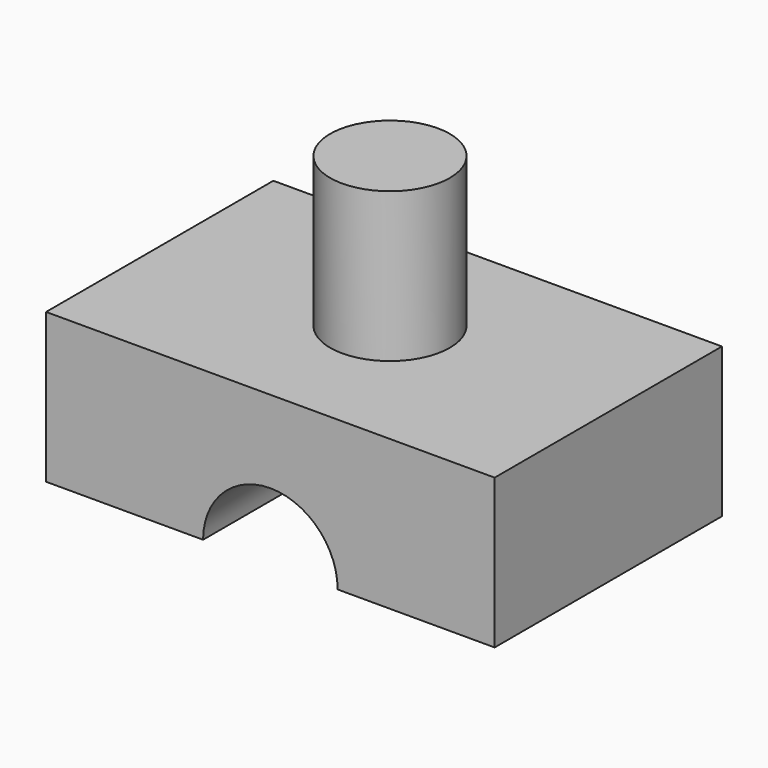
from build123d import *

# Parameters (mm, degrees)
F1_DEPTH = 19
F2_R     = 4
F3_DEPTH = 10


with BuildPart() as f1:
    # F0 (on Front) → F1 (new body)
    with BuildSketch(Plane.XZ):
        with BuildLine():
            Line((7.530867, 10), (-22.469133, 10))
            Line((-22.469133, 10), (-22.469133, 0))
            Line((-22.469133, 0), (-11.969133, 0))
            ThreePointArc((-11.969133, 0), (-7.469133, 4.5), (-2.969133, 0))
            Line((-2.969133, 0), (7.530867, 0))
            Line((7.530867, 0), (7.530867, 10))
        make_face()
    extrude(amount=F1_DEPTH)

    # F2 (on face) → F3 (join)
    with BuildSketch(Plane.XY.offset(10)):
        with Locations((-7.469133, -9)):
            Circle(F2_R)
    extrude(amount=F3_DEPTH)


solid = f1.part
